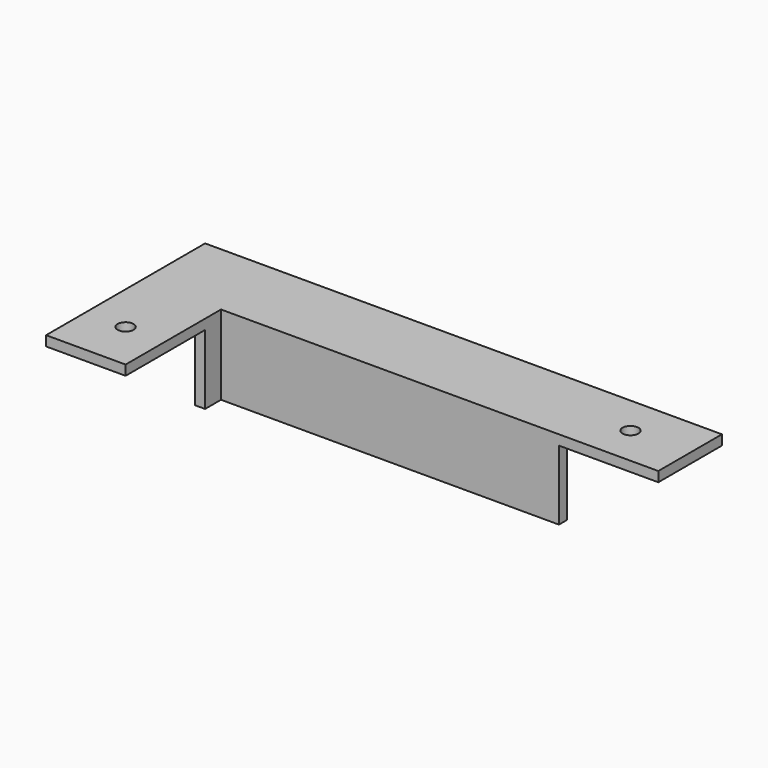
from build123d import *

# Parameters (mm, degrees)
F0_W      = 260
F0_H      = 40
F1_DEPTH  = 5
F2_W      = 170
F2_H      = 5
F3_DEPTH  = 35
F5_DEPTH  = 5
F7_DEPTH  = 35
F8_R      = 4
F9_DEPTH  = 25
F10_DEPTH = 25


with BuildPart() as f1:
    # F0 (on Top) → F1 (new body)
    with BuildSketch(Plane.XY):
        Rectangle(F0_W, F0_H)
    extrude(amount=F1_DEPTH)

    # F2 (on face) → F3 (join)
    with BuildSketch(Plane(origin=(0, 0, 0), x_dir=(1, 0, 0), z_dir=(0, 0, -1))):
        with Locations((-5, 17.5)):
            Rectangle(F2_W, F2_H)
    extrude(amount=F3_DEPTH)

    # F4 (on face) → F5 (join)
    with BuildSketch(Plane(origin=(0, 0, 0), x_dir=(1, 0, 0), z_dir=(0, 0, -1))):
        with BuildLine():
            ThreePointArc((-110, 59), (-112.828427, 52.171573), (-106, 55))
            ThreePointArc((-106, 55), (-107.171573, 57.828427), (-110, 59))
        make_face()
        Polygon((-130, 80), (-130, 20), (-90, 20), (-90, 80), (-110, 80), align=None)
        with BuildLine():
            ThreePointArc((-106, 55), (-112.828427, 52.171573), (-110, 59))
            ThreePointArc((-110, 59), (-107.171573, 57.828427), (-106, 55))
        make_face(mode=Mode.SUBTRACT)
    extrude(amount=-F5_DEPTH)

    # F6 (on face) → F7 (join)
    with BuildSketch(Plane(origin=(0, 0, 0), x_dir=(1, 0, 0), z_dir=(0, 0, -1))):
        Polygon((-95, 15), (-90, 15), (-90, 20), (-90, 30), (-95, 30), align=None)
    extrude(amount=F7_DEPTH)

    # F8 (on face) → F9 (cut)
    with BuildSketch(Plane.XY.offset(5)):
        with Locations((-110, -150)):
            Circle(F8_R)
        with Locations((100, 0)):
            Circle(F8_R)
    extrude(amount=-F9_DEPTH, mode=Mode.SUBTRACT)

    # F4 (on face) → F10 (cut)
    with BuildSketch(Plane(origin=(0, 0, 0), x_dir=(1, 0, 0), z_dir=(0, 0, -1))):
        with BuildLine():
            ThreePointArc((-110, 59), (-112.828427, 52.171573), (-106, 55))
            ThreePointArc((-106, 55), (-107.171573, 57.828427), (-110, 59))
        make_face()
    extrude(amount=-F10_DEPTH, mode=Mode.SUBTRACT)


solid = f1.part
